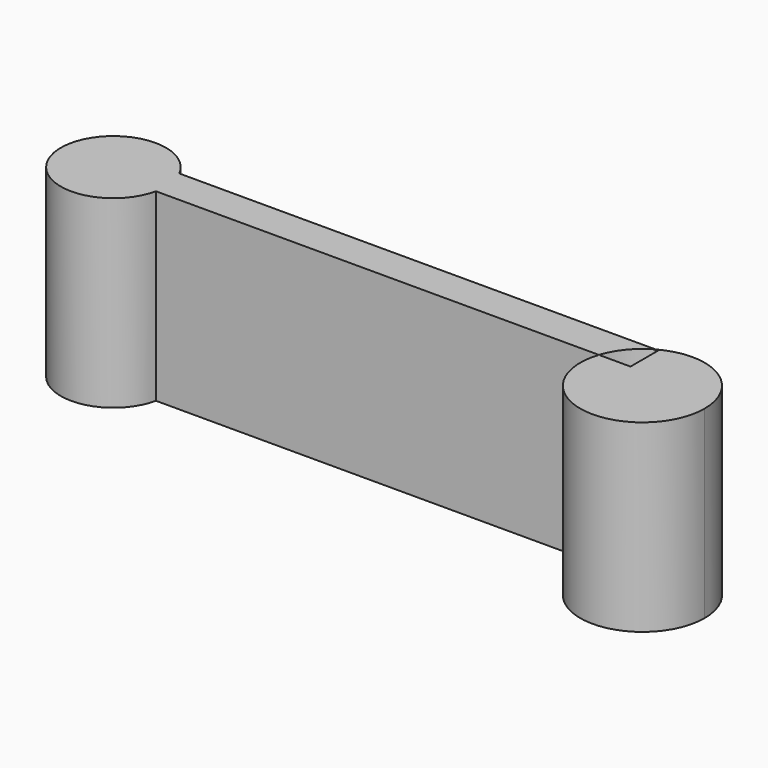
from build123d import *

# Parameters (mm, degrees)
F1_DEPTH = 5


with BuildPart() as f1:
    # F0 (on Top) → F1 (new body)
    with BuildSketch(Plane.XY):
        with BuildLine():
            ThreePointArc((6.9332515671, 0), (6.1005577036, 1.4538081103), (4.4252555029, 1.4711178839))
            Line((4.4252555029, 1.4711178839), (4.503922537, 1.4711178839))
            Line((4.503922537, 1.4711178839), (4.503922537, 0.5254589021))
            Line((4.503922537, 0.5254589021), (3.6463423756, 0.5254589021))
            ThreePointArc((3.6463423756, 0.5254589021), (4.9817304551, -1.6643226168), (6.9332515671, 0))
        make_face()
    extrude(amount=F1_DEPTH)


with BuildPart() as f1b:
    # F0 (on Top) → F1, piece 2 (new body)
    with BuildSketch(Plane.XY):
        with BuildLine():
            ThreePointArc((-8.4808278434, 1.4711178839), (-8.365855866, 1.1579627381), (-8.3268191465, 0.8266610093))
            ThreePointArc((-8.3268191465, 0.8266610093), (-8.3348888277, 0.6752024877), (-8.3590064999, 0.5254589021))
            Line((-8.3590064999, 0.5254589021), (3.6463423756, 0.5254589021))
            ThreePointArc((3.6463423756, 0.5254589021), (3.9468330448, 1.0715671377), (4.4252555029, 1.4711178839))
            Line((4.4252555029, 1.4711178839), (-8.4808278434, 1.4711178839))
        make_face()
        with BuildLine():
            Line((-10.496077463, 1.4711178839), (-8.4808278434, 1.4711178839))
            ThreePointArc((-8.4808278434, 1.4711178839), (-11.1659069996, 0.6445454725), (-8.3590064999, 0.5254589021))
            Line((-8.3590064999, 0.5254589021), (-10.496077463, 0.5254589021))
            Line((-10.496077463, 0.5254589021), (-10.496077463, 1.4711178839))
        make_face()
        with BuildLine():
            ThreePointArc((-8.3590064999, 0.5254589021), (-8.3348888277, 0.6752024877), (-8.3268191465, 0.8266610093))
            ThreePointArc((-8.3268191465, 0.8266610093), (-8.365855866, 1.1579627381), (-8.4808278434, 1.4711178839))
            Line((-8.4808278434, 1.4711178839), (-10.496077463, 1.4711178839))
            Line((-10.496077463, 1.4711178839), (-10.496077463, 0.5254589021))
            Line((-10.496077463, 0.5254589021), (-8.3590064999, 0.5254589021))
        make_face()
    extrude(amount=F1_DEPTH)


solid = Compound([f1.part, f1b.part])
